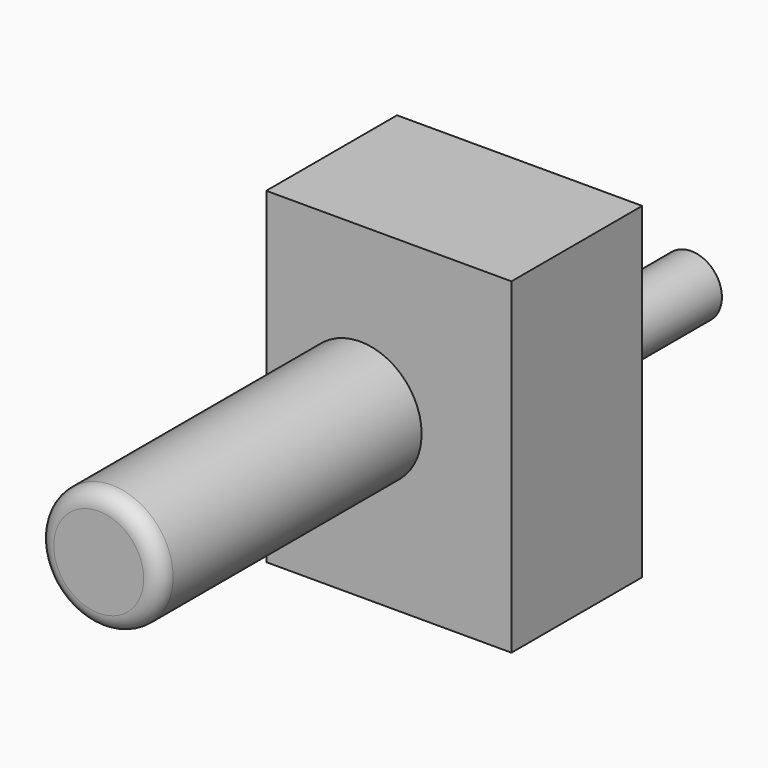
from build123d import *

# Parameters (mm, degrees)
F0_W     = 38.1
F0_H     = 50.8
F1_DEPTH = 25.4
F2_R     = 9.525
F3_DEPTH = 50.8
F4_R     = 2.54
F6_R     = 4.7625
F7_DEPTH = 25.4


with BuildPart() as f1:
    # F0 (on Front) → F1 (new body)
    with BuildSketch(Plane.XZ):
        with Locations((19.05, 25.4)):
            Rectangle(F0_W, F0_H)
    extrude(amount=F1_DEPTH)

    # F2 (on face) → F3 (join)
    with BuildSketch(Plane.XZ.offset(25.4)):
        with Locations((14.613638, 25.4)):
            Circle(F2_R)
    extrude(amount=F3_DEPTH)

    # F4
    f4_edges = [f1.edges().sort_by_distance(p)[0] for p in [
        (5.088638, -76.2, 25.4),
    ]]
    fillet(f4_edges, radius=F4_R)

    # F6 (on face) → F7 (join)
    with BuildSketch(Plane.XZ):
        with Locations((25.4, 25.4)):
            Circle(F6_R)
    extrude(amount=-F7_DEPTH)


solid = f1.part
